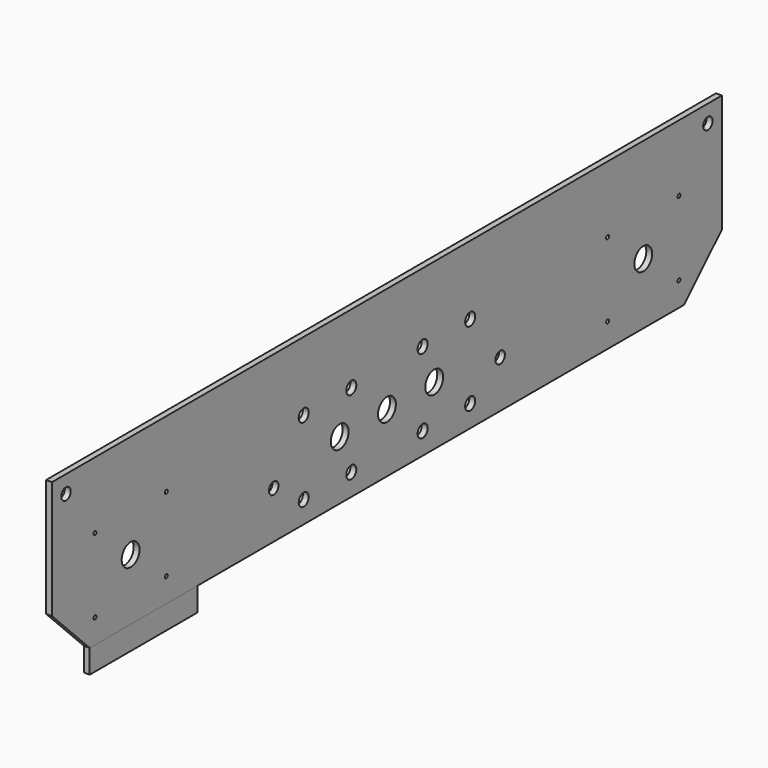
from build123d import *

# Parameters (mm, degrees)
F2_DEPTH = 3.175
F3_R     = 6
F3_R_2   = 3.3782
F3_R_3   = 1
F5_R     = 3.175
F6_DEPTH = 3.175
F7_W     = 72.59063
F7_H     = 12.7
F8_DEPTH = 3.175


with BuildPart() as f2:
    # F1 (on offset) → F2 (new body)
    with BuildSketch(Plane.YZ.offset(142.875)):
        Polygon((225.425, -19.05), (225.425, 44.45), (-225.425, 44.45), (-225.425, -19.05), (-200.025, -44.45), (200.025, -44.45), align=None)
    extrude(amount=F2_DEPTH)

    # F3 (on face) + F5 (on face) → F6 (cut, through all)
    with BuildSketch(Plane.YZ.offset(146.05)):
        with Locations((0, -12.7)):
            Circle(F3_R)
        with Locations((31.8262, -12.7)):
            Circle(F3_R)
        with Locations((-31.8262, -12.7)):
            Circle(F3_R)
        with Locations((172.5, -11.43)):
            Circle(F3_R)
        with Locations((-172.5, -11.43)):
            Circle(F3_R)
        with Locations((24, 7.3)):
            Circle(F3_R_2)
        with Locations((24, -32.7)):
            Circle(F3_R_2)
        with Locations((-24, 7.3)):
            Circle(F3_R_2)
        with Locations((-24, -32.7)):
            Circle(F3_R_2)
        with Locations((-56, 7.3)):
            Circle(F3_R_2)
        with Locations((-56, -32.7)):
            Circle(F3_R_2)
        with Locations((56, 7.3)):
            Circle(F3_R_2)
        with Locations((56, -32.7)):
            Circle(F3_R_2)
        with Locations((-148.5, 8.57)):
            Circle(F3_R_3)
        with Locations((-196.5, 8.57)):
            Circle(F3_R_3)
        with Locations((-148.5, -31.43)):
            Circle(F3_R_3)
        with Locations((-196.5, -31.43)):
            Circle(F3_R_3)
        with Locations((196.5, 8.57)):
            Circle(F3_R_3)
        with Locations((148.5, 8.57)):
            Circle(F3_R_3)
        with Locations((196.5, -31.43)):
            Circle(F3_R_3)
        with Locations((148.5, -31.43)):
            Circle(F3_R_3)
    with BuildSketch(Plane.YZ.offset(146.05)):
        with Locations((-216, 35.025)):
            Circle(F5_R)
        with Locations((-76.2, -19.05)):
            Circle(F5_R)
        with Locations((216, 35.025)):
            Circle(F5_R)
        with Locations((76.2, -19.05)):
            Circle(F5_R)
    extrude(amount=-F6_DEPTH, mode=Mode.SUBTRACT)


with BuildPart() as f8:
    # F7 (on face) → F8 (new body)
    with BuildSketch(Plane.YZ.offset(146.05)):
        with Locations((-163.729685, -50.8)):
            Rectangle(F7_W, F7_H)
    extrude(amount=-F8_DEPTH)


solid = Compound([f2.part, f8.part])
